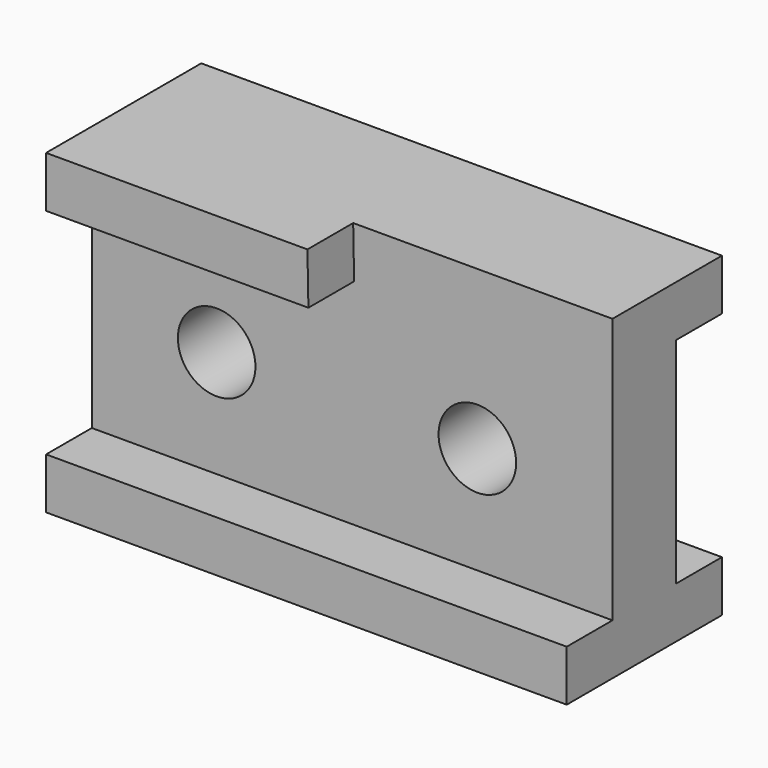
from build123d import *

# Parameters (mm, degrees)
F0_W     = 6477
F0_H     = 3937
F1_DEPTH = 2413
F2_R     = 482.6
F3_DEPTH = 711.2
F4_DEPTH = 1701.8
F5_W     = 6477
F5_H     = 2667
F6_DEPTH = 711.2


with BuildPart() as f1:
    # F0 (on Front) → F1 (new body)
    with BuildSketch(Plane.XZ):
        with Locations((-24.775410071, 1912.0995072126)):
            Rectangle(F0_W, F0_H)
    extrude(amount=F1_DEPTH)

    # F2 (on face) → F3 (cut)
    with BuildSketch(Plane.XZ.offset(2413)):
        Polygon((3213.724589929, 578.5995072126), (3213.724589929, 3880.5995072126), (-12.075410071, 3880.5995072126), (0, 3245.5995072126), (-3263.275410071, 3245.5995072126), (-3263.275410071, 578.5995072126), align=None)
        with Locations((-1710.1669311523, 1912.0995072126)):
            Circle(F2_R, mode=Mode.SUBTRACT)
        with Locations((1532.6801538467, 1912.0995072126)):
            Circle(F2_R, mode=Mode.SUBTRACT)
    extrude(amount=-F3_DEPTH, mode=Mode.SUBTRACT)

    # F4 (cut): faces of the model
    f4_faces = [f1.faces().sort_by_distance(p)[0] for p in [
        (-1710.1669311523, -2413, 1912.0995072126),
        (1532.6801538467, -2413, 1912.0995072126),
    ]]
    extrude(f4_faces, amount=-F4_DEPTH, mode=Mode.SUBTRACT)

    # F5 (on face) → F6 (cut)
    with BuildSketch(Plane(origin=(0, 0, 0), x_dir=(-1, 0, 0), z_dir=(0, 1, 0))):
        with Locations((24.775410071, 1912.0995072126)):
            Rectangle(F5_W, F5_H)
    extrude(amount=-F6_DEPTH, mode=Mode.SUBTRACT)


solid = f1.part
